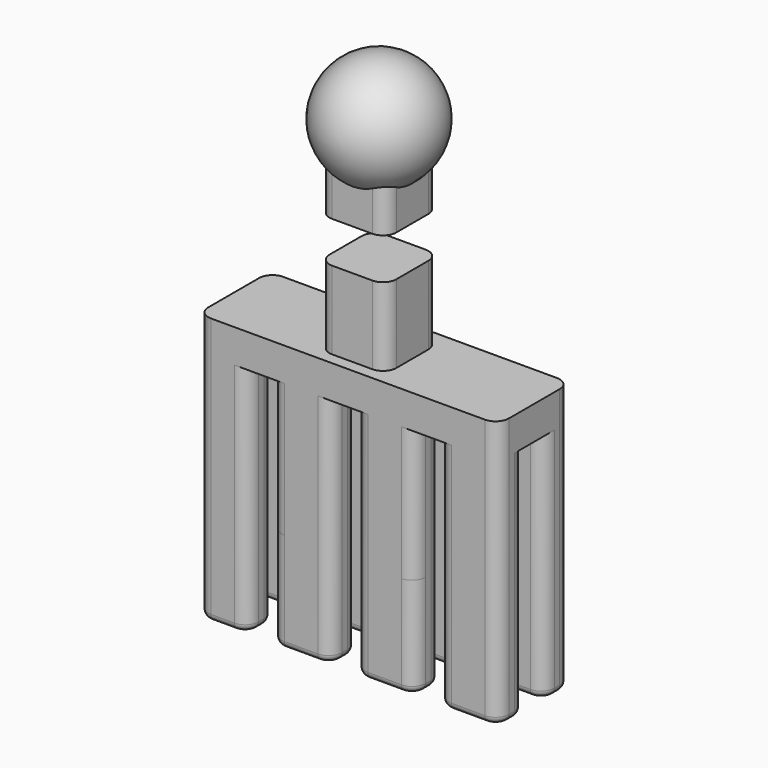
from build123d import *

# Parameters (mm, degrees)
F0_W           = 9
F0_H           = 5
F1_DEPTH       = 20
F2_W           = 9
F2_H           = 5
F3_DEPTH       = 5
F4_W           = 10
F4_H           = 10
F5_DEPTH       = 30
F9_R           = 2
F11_DEPTH      = 15
F12_W          = 6.6448425278
F12_H          = 6.1659477651
F12_W_2        = 6
F12_W_3        = 7.9281374067
F13_DEPTH      = 25
F14_W          = 3
F14_H          = 5
F14_W_2        = 2
F14_W_3        = 3.5
F15_DEPTH      = 12.5
F15_DEPTH_BACK = 32.5
F16_W          = 9
F16_H          = 5
F16_W_2        = 7.5
F17_DEPTH      = 35
F18_R          = 2
F19_R          = 1


with BuildPart() as f1:
    # F0 (on Top) → F1 (new body)
    with BuildSketch(Plane.XY):
        with Locations((-4.5, 2.5)):
            Rectangle(F0_W, F0_H)
    extrude(amount=F1_DEPTH)


with BuildPart() as f1b:
    # F0 (on Top) → F1, piece 2 (new body)
    with BuildSketch(Plane.XY):
        with Locations((8, 2.5)):
            Rectangle(F0_W, F0_H)
    extrude(amount=F1_DEPTH)


with BuildPart() as f1c:
    # F0 (on Top) → F1, piece 3 (new body)
    with BuildSketch(Plane.XY):
        with Locations((-4.5, -6)):
            Rectangle(F0_W, F0_H)
    extrude(amount=F1_DEPTH)


with BuildPart() as f1d:
    # F0 (on Top) → F1, piece 4 (new body)
    with BuildSketch(Plane.XY):
        with Locations((8, -6)):
            Rectangle(F0_W, F0_H)
    extrude(amount=F1_DEPTH)


with BuildPart() as f3:
    # F2 (on face) → F3 (new body)
    with BuildSketch(Plane.XY.offset(20)):
        Polygon((12.5, 5), (0, 5), (0, 0), (-9, 0), (-9, -8.5), (12.5, -8.5), align=None)
        with Locations((-4.5, 2.5)):
            Rectangle(F2_W, F2_H)
    extrude(amount=F3_DEPTH)

    # F4 (on face) → F5 (join)
    with BuildSketch(Plane.XY.offset(25)):
        with Locations((1.75, -1.75)):
            Rectangle(F4_W, F4_H)
    extrude(amount=F5_DEPTH)

    # F6 (on face) → F7 (revolve)
    with BuildSketch(Plane.XY.offset(55)):
        with BuildLine():
            Line((-3.25, 3.25), (1.75, 3.25))
            Line((1.75, 3.25), (1.75, 6.75))
            ThreePointArc((1.75, 6.75), (-6.75, -1.75), (1.75, -10.25))
            Line((1.75, -10.25), (1.75, -6.75))
            Line((1.75, -6.75), (-3.25, -6.75))
            Line((-3.25, -6.75), (-3.25, 3.25))
        make_face()
        Polygon((1.75, -6.75), (1.75, -1.75), (1.75, 3.25), (-3.25, 3.25), (-3.25, -6.75), align=None)
    revolve(axis=Axis((1.75, -6, 55), (0, -1, 0)))


with BuildPart() as f1_1:
    add(f1.part)

    # F8: union F1b, F1c, F1d, F3
    add(f1b.part)
    add(f1c.part)
    add(f1d.part)
    add(f3.part)

    # F9
    f9_edges = [f1_1.edges().sort_by_distance(p)[0] for p in [
        (-9, -8.5, 12.5),
        (12.5, -8.5, 12.5),
        (-9, 5, 12.5),
        (-3.25, 3.25, 37.641505),
        (-3.25, -6.75, 37.641505),
        (12.5, 5, 12.5),
        (6.75, 3.25, 37.641505),
        (6.75, -6.75, 37.641505),
    ]]
    fillet(f9_edges, radius=F9_R)

    # F10 (on face) → F11 (join)
    with BuildSketch(Plane.XY):
        with BuildLine():
            ThreePointArc((10.5, -8.5), (11.9142135624, -7.9142135624), (12.5, -6.5))
            Line((12.5, -6.5), (12.5, -3.5))
            Line((12.5, -3.5), (3.5, -3.5))
            Line((3.5, -3.5), (3.5, -8.5))
            Line((3.5, -8.5), (10.5, -8.5))
        make_face()
        with BuildLine():
            ThreePointArc((-9, -6.5), (-8.4142135624, -7.9142135624), (-7, -8.5))
            Line((-7, -8.5), (0, -8.5))
            Line((0, -8.5), (0, -3.5))
            Line((0, -3.5), (-9, -3.5))
            Line((-9, -3.5), (-9, -6.5))
        make_face()
        with BuildLine():
            ThreePointArc((12.5, 3), (11.9142135624, 4.4142135624), (10.5, 5))
            Line((10.5, 5), (3.5, 5))
            Line((3.5, 5), (3.5, 0))
            Line((3.5, 0), (12.5, 0))
            Line((12.5, 0), (12.5, 3))
        make_face()
        with BuildLine():
            Line((-9, 0), (0, 0))
            Line((0, 0), (0, 5))
            Line((0, 5), (-7, 5))
            ThreePointArc((-7, 5), (-8.4142135624, 4.4142135624), (-9, 3))
            Line((-9, 3), (-9, 0))
        make_face()
    extrude(amount=-F11_DEPTH)

    # F12 (on face) → F13 (cut)
    with BuildSketch(Plane.XZ.offset(6.75)):
        with Locations((8.0724212639, 39.7722329944)):
            Rectangle(F12_W, F12_H)
        with Locations((1.75, 39.7722329944)):
            Rectangle(F12_W_2, F12_H)
        with Locations((-5.2140687034, 39.7722329944)):
            Rectangle(F12_W_3, F12_H)
    extrude(amount=-F13_DEPTH, mode=Mode.SUBTRACT)

    # F14 (on face) → F15 (join, two sides)
    with BuildSketch(Plane.YZ.offset(12.5)) as f15_sk:
        with Locations((-5, 22.5)):
            Rectangle(F14_W, F14_H)
        with Locations((-7.5, 22.5)):
            Rectangle(F14_W_2, F14_H)
        with Locations((1.5, 22.5)):
            Rectangle(F14_W, F14_H)
        with Locations((-1.75, 22.5)):
            Rectangle(F14_W_3, F14_H)
        with Locations((4, 22.5)):
            Rectangle(F14_W_2, F14_H)
    extrude(amount=F15_DEPTH)
    extrude(f15_sk.sketch, amount=-F15_DEPTH_BACK)

    # F16 (on face) → F17 (join)
    with BuildSketch(Plane(origin=(0, 0, 20), x_dir=(1, 0, 0), z_dir=(0, 0, -1))):
        with Locations((20.5, 6)):
            Rectangle(F16_W, F16_H)
        with Locations((20.5, -2.5)):
            Rectangle(F16_W, F16_H)
        with Locations((-16.25, -2.5)):
            Rectangle(F16_W_2, F16_H)
        with Locations((-16.25, 6)):
            Rectangle(F16_W_2, F16_H)
    extrude(amount=F17_DEPTH)

    # F18
    f18_edges = [f1_1.edges().sort_by_distance(p)[0] for p in [
        (25, 5, 5),
        (16, 5, 2.5),
        (3.5, 5, 2.5),
        (0, 5, 2.5),
        (-12.5, 5, 2.5),
        (-20, 5, 5),
        (-20, -8.5, 5),
        (-12.5, -8.5, 2.5),
        (0, -8.5, 2.5),
        (3.5, -8.5, 2.5),
        (25, -8.5, 5),
        (16, -8.5, 2.5),
        (-20, 0, 2.5),
        (-20, -3.5, 2.5),
        (-12.5, 0, 2.5),
        (-12.5, -3.5, 2.5),
        (-9, 0, 2.5),
        (-9, -3.5, 2.5),
        (3.5, -3.5, 2.5),
        (3.5, 0, 2.5),
        (0, 0, 2.5),
        (0, -3.5, 2.5),
        (12.5, 0, 2.5),
        (12.5, -3.5, 2.5),
        (16, 0, 2.5),
        (16, -3.5, 2.5),
        (25, -3.5, 2.5),
        (25, 0, 2.5),
    ]]
    fillet(f18_edges, radius=F18_R)

    # F19
    f19_edges = [f1_1.edges().sort_by_distance(p)[0] for p in [
        (-16.25, 0, -15),
        (-13.085786, 0.585786, -15),
        (-19.414214, 0.585786, -15),
        (-12.5, 2.5, -15),
        (-20, 2.5, -15),
        (-13.085786, 4.414214, -15),
        (-19.414214, 4.414214, -15),
        (-16.25, 5, -15),
        (25, 2.5, -15),
        (24.414214, 4.414214, -15),
        (24.414214, 0.585786, -15),
        (20.5, 5, -15),
        (20.5, 0, -15),
        (16.585786, 4.414214, -15),
        (16.585786, 0.585786, -15),
        (16, 2.5, -15),
        (25, -6, -15),
        (24.414214, -4.085786, -15),
        (24.414214, -7.914214, -15),
        (20.5, -3.5, -15),
        (20.5, -8.5, -15),
        (16.585786, -4.085786, -15),
        (16.585786, -7.914214, -15),
        (16, -6, -15),
        (12.5, -6, -15),
        (11.914214, -4.085786, -15),
        (11.914214, -7.914214, -15),
        (8, -3.5, -15),
        (8, -8.5, -15),
        (4.085786, -4.085786, -15),
        (4.085786, -7.914214, -15),
        (3.5, -6, -15),
        (-4.5, -8.5, -15),
        (-0.585786, -7.914214, -15),
        (-8.414214, -7.914214, -15),
        (0, -6, -15),
        (-9, -6, -15),
        (-0.585786, -4.085786, -15),
        (-8.414214, -4.085786, -15),
        (-4.5, -3.5, -15),
        (-12.5, -6, -15),
        (-13.085786, -4.085786, -15),
        (-13.085786, -7.914214, -15),
        (-16.25, -3.5, -15),
        (-16.25, -8.5, -15),
        (-19.414214, -4.085786, -15),
        (-19.414214, -7.914214, -15),
        (-20, -6, -15),
        (-9, 2.5, -15),
        (-8.414214, 0.585786, -15),
        (-8.414214, 4.414214, -15),
        (-4.5, 0, -15),
        (-4.5, 5, -15),
        (-0.585786, 0.585786, -15),
        (-0.585786, 4.414214, -15),
        (0, 2.5, -15),
        (8, 5, -15),
        (4.085786, 4.414214, -15),
        (11.914214, 4.414214, -15),
        (3.5, 2.5, -15),
        (12.5, 2.5, -15),
        (4.085786, 0.585786, -15),
        (11.914214, 0.585786, -15),
        (8, 0, -15),
    ]]
    fillet(f19_edges, radius=F19_R)


solid = f1_1.part
